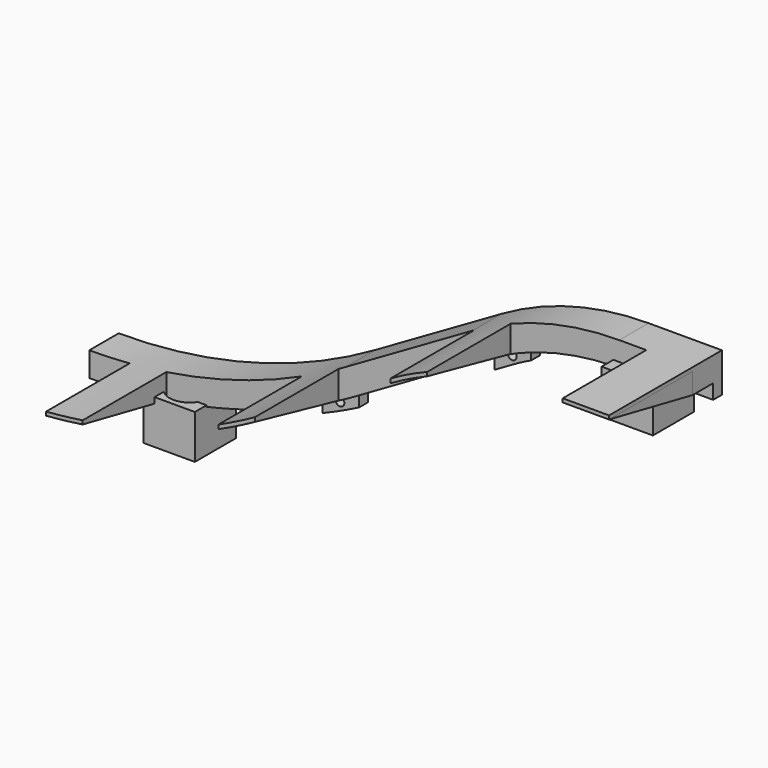
from build123d import *

# Parameters (mm, degrees)
SKETCH038_W            = 5
SKETCH038_H            = 3.1
EXTRUDE001_DEPTH       = 7
BOX010_W               = 200
BOX010_H               = 100
BOX010_DEPTH           = 100
BOX008_W               = 20
BOX008_H               = 20
BOX008_DEPTH           = 20
BOX008_PLACEMENT_ANGLE = 30
BOX011_W               = 14
BOX011_H               = 14
BOX011_DEPTH           = 20
SKETCH039_R            = 5.5
POCKET007_DEPTH        = 20.001
BOX014_W               = 7.5
BOX014_H               = 60
BOX014_DEPTH           = 200
ARRAY002_X_COUNT       = 7
ARRAY002_X_PITCH       = 47
BOX006_W               = 37
BOX006_H               = 60
BOX006_DEPTH           = 200
ARRAY_X_COUNT          = 6
ARRAY_X_PITCH          = 47
BOX012_W               = 14
BOX012_H               = 14
BOX012_DEPTH           = 12
SKETCH032_R            = 5.5
POCKET009_DEPTH        = 12.001
BOX013_W               = 14
BOX013_H               = 14
BOX013_DEPTH           = 12
SKETCH034_R            = 5.5
POCKET008_DEPTH        = 12.001
BOX009_W               = 37
BOX009_H               = 60
BOX009_DEPTH           = 200
ARRAY001_X_COUNT       = 6
ARRAY001_X_PITCH       = 47
SKETCH035_W            = 3
SKETCH035_H            = 4
SKETCH036_R            = 1.2
POCKET006_DEPTH        = 3.001


with BuildPart() as extrude001:
    # Sketch038 → Extrude001 (new body)
    with BuildSketch(Plane.YZ):
        with Locations((13.55, -28.55)):
            Rectangle(SKETCH038_W, SKETCH038_H)
    extrude(amount=EXTRUDE001_DEPTH)


with BuildPart() as bigleft:
    # Box010 → Box010 (new body)
    with BuildSketch(Plane(origin=(0, -50, -50), x_dir=(1, 0, 0), z_dir=(0, 0, 1))):
        with Locations((100, 50)):
            Rectangle(BOX010_W, BOX010_H)
    extrude(amount=BOX010_DEPTH)


with BuildPart() as pillar_cut_cube_l:
    # Box008 → Box008 (new body)
    with BuildSketch(Plane.XY):
        with Locations((10, 10)):
            Rectangle(BOX008_W, BOX008_H)
    extrude(amount=BOX008_DEPTH)


with BuildPart() as pillar_cut_cube_l_1:
    # Box008 placement: moved
    add(pillar_cut_cube_l.part.moved(Location((-127.001, 5, 20.4905))).rotate(Axis((-127.001, 5, 20.4905), (0, 1, 0)), BOX008_PLACEMENT_ANGLE))


with BuildPart() as cut011:
    # Box011 → Box011 (new body)
    with BuildSketch(Plane(origin=(-125, 8.55, 0), x_dir=(1, 0, 0), z_dir=(0, 0, 1))):
        with Locations((7, 7)):
            Rectangle(BOX011_W, BOX011_H)
    extrude(amount=BOX011_DEPTH)

    # Sketch039 → Pocket007 (cut, through all)
    with BuildSketch(Plane(origin=(-125, 8.55, 20), x_dir=(1, 0, 0), z_dir=(0, 0, 1))):
        with Locations((7, 7)):
            Circle(SKETCH039_R)
    extrude(amount=-POCKET007_DEPTH, mode=Mode.SUBTRACT)

    # Cut011: cut pillar_cut_cube_l
    add(pillar_cut_cube_l_1.part, mode=Mode.SUBTRACT)


with BuildPart() as array002:
    # Box014 → Box014 (new body)
    with BuildSketch(Plane(origin=(-128.8, 18.55, -100), x_dir=(1, 0, 0), z_dir=(0, 0, 1))):
        with Locations((3.75, 30)):
            Rectangle(BOX014_W, BOX014_H)
    extrude(amount=BOX014_DEPTH)

    # Array002 X: Array002 ×7


with BuildPart() as array002_1:
    add(array002.part)
    with Locations(*[(i * ARRAY002_X_PITCH, 0, 0) for i in range(1, ARRAY002_X_COUNT)]):
        add(array002.part)


with BuildPart() as rail_cut_cube_array_b:
    # Box006 → Box006 (new body)
    with BuildSketch(Plane(origin=(-120, 18.55, -100), x_dir=(1, 0, 0), z_dir=(0, 0, 1))):
        with Locations((18.5, 30)):
            Rectangle(BOX006_W, BOX006_H)
    extrude(amount=BOX006_DEPTH)

    # Array X: rail_cut_cube_array_b ×6


with BuildPart() as rail_cut_cube_array_b_1:
    add(rail_cut_cube_array_b.part)
    with Locations(*[(i * ARRAY_X_PITCH, 0, 0) for i in range(1, ARRAY_X_COUNT)]):
        add(rail_cut_cube_array_b.part)


with BuildPart() as cut013:
    # Sweep002: sweep along a path in Sketch028
    with BuildLine(Plane.XZ) as sweep002_path:
        Line((164.641016, 24.27441), (144.641016, 24.27441))
        ThreePointArc((144.641016, 24.27441), (123.935493, 21.548477), (104.641016, 13.556443))
        Line((104.641016, 13.556443), (70, -6.443557))
        ThreePointArc((70, -6.443557), (0, -25.2), (-70, -6.443557))
        Line((-70, -6.443557), (-130.621778, 28.556443))
    # Sketch043 → Sweep002 (sweep)
    with BuildSketch(Plane.YZ.offset(164.641016)):
        Polygon((18.55, 17.58), (47.05, 23.28), (18.55, 23.28), align=None)
    sweep(path=sweep002_path.line)

    # Cut012: cut rail_cut_cube_array_b
    add(rail_cut_cube_array_b_1.part, mode=Mode.SUBTRACT)

    # Cut013: cut Array002
    add(array002_1.part, mode=Mode.SUBTRACT)


with BuildPart() as rail_cut_b:
    # Sweep: sweep along a path in Sketch028
    with BuildLine(Plane.XZ) as sweep_path:
        Line((164.641016, 24.27441), (144.641016, 24.27441))
        ThreePointArc((144.641016, 24.27441), (123.935493, 21.548477), (104.641016, 13.556443))
        Line((104.641016, 13.556443), (70, -6.443557))
        ThreePointArc((70, -6.443557), (0, -25.2), (-70, -6.443557))
        Line((-70, -6.443557), (-130.621778, 28.556443))
    # Sketch029 → Sweep (sweep)
    with BuildSketch(Plane.YZ):
        Polygon((-19.25, -25.2), (-19.25, -31.9), (-9.25, -31.9), (-9.25, -26.2), (19.25, -26.2), (19.25, -25.2), align=None)
    sweep(path=sweep_path.line)


with BuildPart() as rail_cut_b_1:
    # Sweep placement: moved
    add(rail_cut_b.part.moved(Location((0, 27.8, 0))))

    # Cut007: cut rail_cut_cube_array_b
    add(rail_cut_cube_array_b_1.part, mode=Mode.SUBTRACT)


with BuildPart() as pillar_hollow_r:
    # Box012 → Box012 (new body)
    with BuildSketch(Plane(origin=(143, 8.55, 7), x_dir=(1, 0, 0), z_dir=(0, 0, 1))):
        with Locations((7, 7)):
            Rectangle(BOX012_W, BOX012_H)
    extrude(amount=BOX012_DEPTH)

    # Sketch032 → Pocket009 (cut, through all)
    with BuildSketch(Plane(origin=(143, 8.55, 19), x_dir=(1, 0, 0), z_dir=(0, 0, 1))):
        with Locations((7, 7)):
            Circle(SKETCH032_R)
    extrude(amount=-POCKET009_DEPTH, mode=Mode.SUBTRACT)


with BuildPart() as pillar_hollow_m:
    # Box013 → Box013 (new body)
    with BuildSketch(Plane(origin=(18, 8.55, -40), x_dir=(1, 0, 0), z_dir=(0, 0, 1))):
        with Locations((7, 7)):
            Rectangle(BOX013_W, BOX013_H)
    extrude(amount=BOX013_DEPTH)

    # Sketch034 → Pocket008 (cut, through all)
    with BuildSketch(Plane(origin=(18, 8.55, -28), x_dir=(1, 0, 0), z_dir=(0, 0, 1))):
        with Locations((7, 7)):
            Circle(SKETCH034_R)
    extrude(amount=-POCKET008_DEPTH, mode=Mode.SUBTRACT)


with BuildPart() as mount_cube_array_b:
    # Box009 → Box009 (new body)
    with BuildSketch(Plane(origin=(-120, 18.55, -100), x_dir=(1, 0, 0), z_dir=(0, 0, 1))):
        with Locations((18.5, 30)):
            Rectangle(BOX009_W, BOX009_H)
    extrude(amount=BOX009_DEPTH)

    # Array001 X: mount_cube_array_b ×6


with BuildPart() as mount_cube_array_b_1:
    add(mount_cube_array_b.part)
    with Locations(*[(i * ARRAY001_X_PITCH, 0, 0) for i in range(1, ARRAY001_X_COUNT)]):
        add(mount_cube_array_b.part)


with BuildPart() as mount_cube_array_b_2:
    # Array001 placement: moved
    add(mount_cube_array_b_1.part.moved(Location((0, -30, 0))))


with BuildPart() as clone_of_cut015:
    # Sweep001: sweep along a path in Sketch028
    with BuildLine(Plane.XZ) as sweep001_path:
        Line((-130.621778, 28.556443), (-70, -6.443557))
        ThreePointArc((-70, -6.443557), (0, -25.2), (70, -6.443557))
        Line((70, -6.443557), (104.641016, 13.556443))
        ThreePointArc((104.641016, 13.556443), (123.935493, 21.548477), (144.641016, 24.27441))
        Line((144.641016, 24.27441), (164.641016, 24.27441))
    # Sketch035 → Sweep001 (sweep)
    with BuildSketch(Plane.YZ):
        with Locations((-17.75, -33.9)):
            Rectangle(SKETCH035_W, SKETCH035_H)
    sweep(path=sweep001_path.line)


with BuildPart() as clone_of_cut015_1:
    # Sweep001 placement: moved
    add(clone_of_cut015.part.moved(Location((0, 27.8, 0))))

    # Sketch036 → Pocket006 (cut, through all)
    with BuildSketch(Plane.XZ.offset(-8.55)):
        with Locations((-127.361382, 16.612761)):
            Circle(SKETCH036_R)
        with Locations((-78.25576, -11.759304)):
            Circle(SKETCH036_R)
        with Locations((-31.170284, -30.615305)):
            Circle(SKETCH036_R)
        with Locations((15.982787, -32.973976)):
            Circle(SKETCH036_R)
        with Locations((62.801571, -19.921701)):
            Circle(SKETCH036_R)
        with Locations((109.81105, 6.487408)):
            Circle(SKETCH036_R)
        with Locations((158.314011, 15.583238)):
            Circle(SKETCH036_R)
    extrude(amount=-POCKET006_DEPTH, mode=Mode.SUBTRACT)

    # Cut010: cut mount_cube_array_b
    add(mount_cube_array_b_2.part, mode=Mode.SUBTRACT)

    # Fusion003: union Cut011, Cut013, rail_cut_b, pillar_hollow_r, pillar_hollow_m
    add(cut011.part)
    add(cut013.part)
    add(rail_cut_b_1.part)
    add(pillar_hollow_r.part)
    add(pillar_hollow_m.part)

    # Common: intersect bigleft
    add(bigleft.part, mode=Mode.INTERSECT)

    # Cut015: cut Extrude001
    add(extrude001.part, mode=Mode.SUBTRACT)


with BuildPart() as rail_fr:
    # Part__Mirroring001: instance of Clone of Cut015
    add(clone_of_cut015_1.part.mirror(Plane(origin=(82.320511, 0, -4.567103), x_dir=(1, 0, 0), z_dir=(0, 1, 0))))


with BuildPart() as rail_fr_1:
    # Part__Mirroring001 placement: moved
    add(rail_fr.part.moved(Location((0, -5, 0))))


solid = rail_fr_1.part
